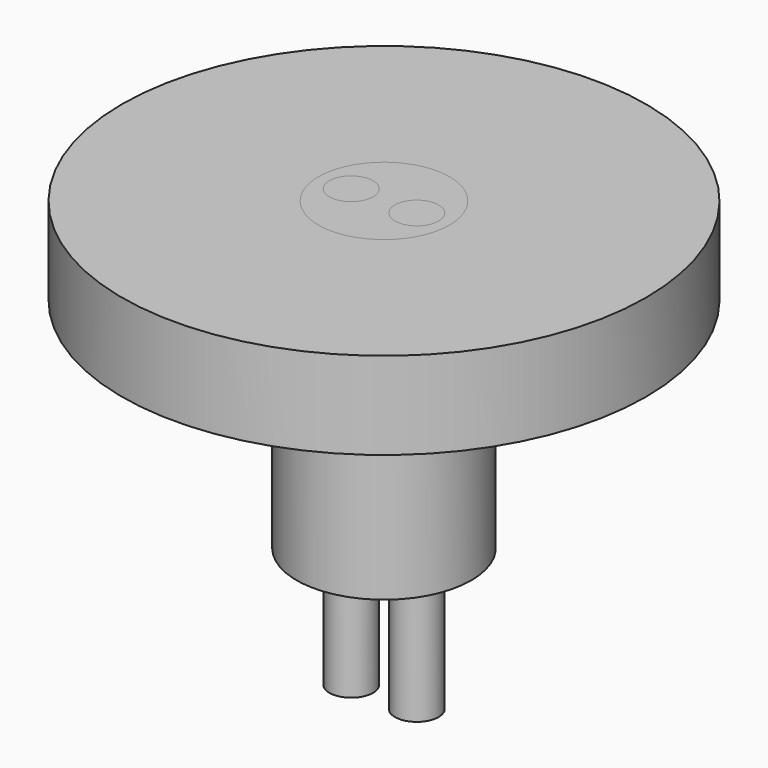
from build123d import *

# Parameters (mm, degrees)
F0_R     = 6
F1_DEPTH = 2
F2_R     = 2
F2_R_2   = 1.5
F3_DEPTH = 5
F4_R     = 1.5
F5_DEPTH = 25
F6_R     = 1.5
F6_R_2   = 0.5
F7_DEPTH = 7
F8_R     = 0.5
F9_DEPTH = 10


with BuildPart() as f1:
    # F0 (on Top) → F1 (new body)
    with BuildSketch(Plane.XY):
        Circle(F0_R)
    extrude(amount=F1_DEPTH)

    # F2 (on face) → F3 (join)
    with BuildSketch(Plane(origin=(0, 0, 0), x_dir=(1, 0, 0), z_dir=(0, 0, -1))):
        Circle(F2_R)
        Circle(F2_R_2, mode=Mode.SUBTRACT)
    extrude(amount=F3_DEPTH)

    # F4 (on face) → F5 (cut)
    with BuildSketch(Plane(origin=(0, 0, 0), x_dir=(1, 0, 0), z_dir=(0, 0, -1))):
        Circle(F4_R)
    extrude(amount=-F5_DEPTH, mode=Mode.SUBTRACT)


with BuildPart() as f7:
    # F6 (on face) → F7 (new body)
    with BuildSketch(Plane.XY.offset(2)):
        Circle(F6_R)
        with Locations((-0.75, 0)):
            Circle(F6_R_2, mode=Mode.SUBTRACT)
        with Locations((0.75, 0)):
            Circle(F6_R_2, mode=Mode.SUBTRACT)
    extrude(amount=-F7_DEPTH)


with BuildPart() as f9:
    # F8 (on face) → F9 (new body)
    with BuildSketch(Plane.XY.offset(2)):
        with Locations((-0.75, 0)):
            Circle(F8_R)
        with Locations((0.75, 0)):
            Circle(F8_R)
    extrude(amount=-F9_DEPTH)


solid = Compound([f1.part, f7.part, f9.part])
